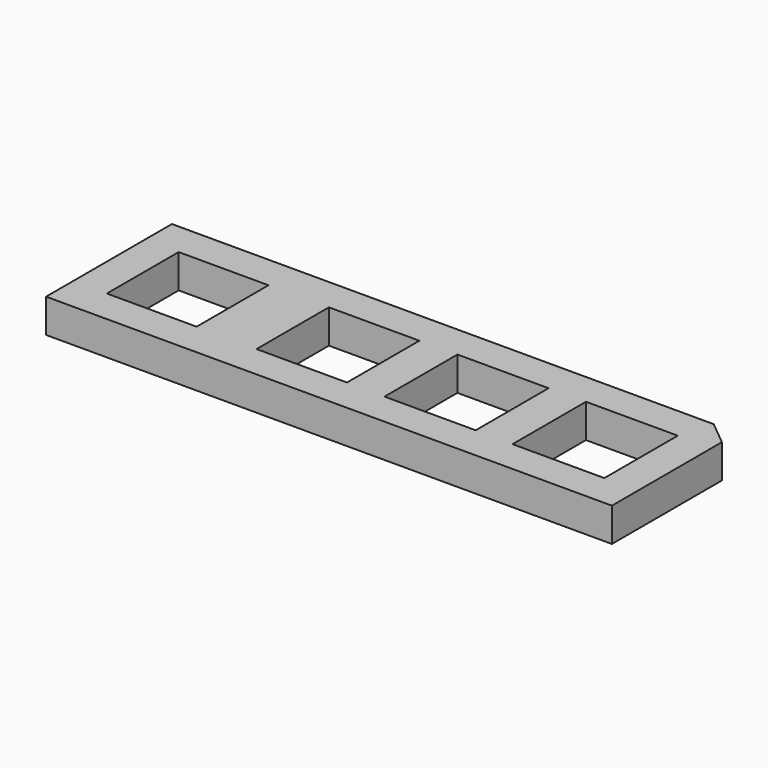
from build123d import *

# Parameters (mm, degrees)
F0_W     = 13.3
F0_H     = 13.3
F0_W_2   = 13.4
F0_H_2   = 13.4
F0_W_3   = 13.5
F0_H_3   = 13.5
F0_W_4   = 13.6
F0_H_4   = 13.6
F1_DEPTH = 5


with BuildPart() as f1:
    # F0 (on Top) → F1 (new body)
    with BuildSketch(Plane.XY):
        Polygon((27.294878, 11.65), (-52.963719, 11.65), (-52.963719, -11.65), (30.85, -11.65), (30.85, 8.722694), align=None)
        with Locations((-41.313719, 0)):
            Rectangle(F0_W, F0_H, mode=Mode.SUBTRACT)
        with Locations((-19.05, 0)):
            Rectangle(F0_W_2, F0_H_2, mode=Mode.SUBTRACT)
        Rectangle(F0_W_3, F0_H_3, mode=Mode.SUBTRACT)
        with Locations((19.05, 0)):
            Rectangle(F0_W_4, F0_H_4, mode=Mode.SUBTRACT)
    extrude(amount=F1_DEPTH)


solid = f1.part
